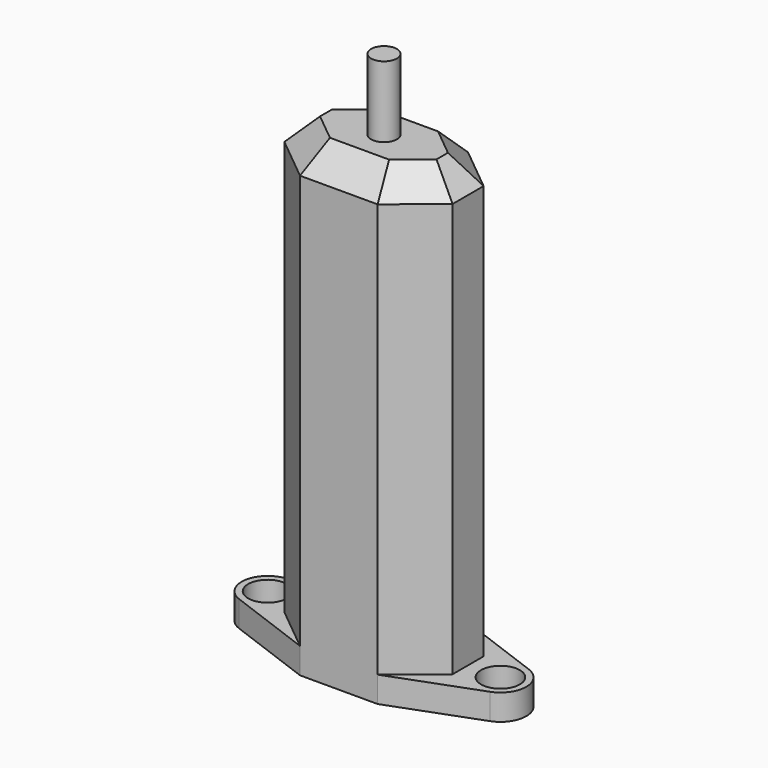
from build123d import *

# Parameters (mm, degrees)
SKETCH_R     = 1.5
PAD_DEPTH    = 2
PAD001_DEPTH = 34
CHAMFER_SIZE = 2
SKETCH002_R  = 1
PAD002_DEPTH = 5.5


with BuildPart() as part:
    # Sketch → Pad (new body)
    with BuildSketch(Plane.XY):
        with BuildLine():
            ThreePointArc((-9.697093, 1.874583), (-11, 0), (-9.697093, -1.874583))
            Line((-3, -4.365), (-9.697093, -1.874583))
            Line((3, -4.365), (-3, -4.365))
            Line((9.697093, -1.874583), (3, -4.365))
            ThreePointArc((9.697093, -1.874583), (11, 0), (9.697093, 1.874583))
            Line((3, 4.365), (9.697093, 1.874583))
            Line((-3, 4.365), (3, 4.365))
            Line((-9.697093, 1.874583), (-3, 4.365))
        make_face()
        with Locations((-9, 0)):
            Circle(SKETCH_R, mode=Mode.SUBTRACT)
        with Locations((9, 0)):
            Circle(SKETCH_R, mode=Mode.SUBTRACT)
    extrude(amount=PAD_DEPTH)

    # Sketch001 (on Face12 of Pad) → Pad001 (join)
    with BuildSketch(Plane.XY.offset(2)):
        Polygon((-3, 4.365), (-6.5, 1.5), (-6.5, -1.5), (-3, -4.365), (3, -4.365), (6.5, -1.5), (6.5, 1.5), (3, 4.365), align=None)
    extrude(amount=PAD001_DEPTH)

    # Chamfer
    chamfer_edges = [part.edges().sort_by_distance(p)[0] for p in [
        (6.5, 0, 36),
        (4.75, -2.9325, 36),
        (0, -4.365, 36),
        (-4.75, -2.9325, 36),
        (-6.5, 0, 36),
        (-4.75, 2.9325, 36),
        (0, 4.365, 36),
        (4.75, 2.9325, 36),
    ]]
    chamfer(chamfer_edges, length=CHAMFER_SIZE)

    # Sketch002 (on Face9 of Chamfer) → Pad002 (join)
    with BuildSketch(Plane.XY.offset(36)):
        Circle(SKETCH002_R)
    extrude(amount=PAD002_DEPTH)


solid = part.part
